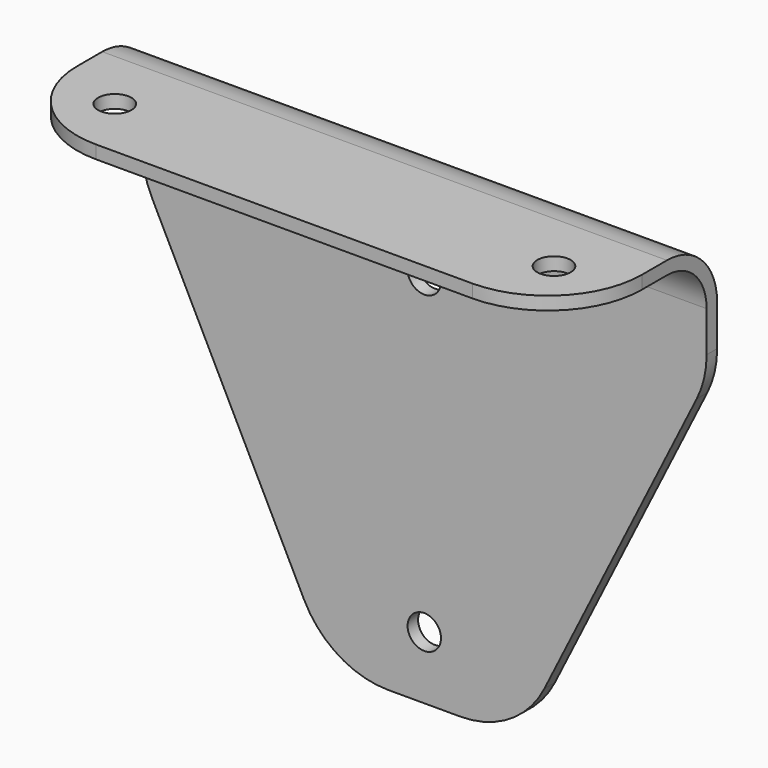
from build123d import *

# Parameters (mm, degrees)
F3_DEPTH = 2.6543
F4_W     = 114.3
F4_H     = 38.1
F5_DEPTH = 2.6543
F6_R     = 10.0457
F7_R     = 12.7
F8_R     = 19.05
F10_D    = 6.7564
F12_D    = 6.7564


with BuildPart() as f3:
    # F2 (on offset) → F3 (new body)
    with BuildSketch(Plane.XZ.offset(19.05)):
        Polygon((57.15, 0), (0, 0), (-57.15, 0), (-57.15, -25.4), (-19.05, -101.6), (0, -101.6), (19.05, -101.6), (57.15, -25.4), align=None)
    extrude(amount=F3_DEPTH)

    # F4 (on face) → F5 (join)
    with BuildSketch(Plane.XY):
        with Locations((0, -38.1)):
            Rectangle(F4_W, F4_H)
    extrude(amount=-F5_DEPTH)

    # F6
    f6_edges = [f3.edges().sort_by_distance(p)[0] for p in [
        (0, -21.7043, -2.6543),
    ]]
    fillet(f6_edges, radius=F6_R)

    # F7
    f7_edges = [f3.edges().sort_by_distance(p)[0] for p in [
        (0, -19.05, 0),
    ]]
    fillet(f7_edges, radius=F7_R)

    # F8
    f8_edges = [f3.edges().sort_by_distance(p)[0] for p in [
        (-57.15, -57.15, -1.32715),
        (57.15, -57.15, -1.32715),
        (-57.15, -20.37715, -25.4),
        (57.15, -20.37715, -25.4),
        (19.05, -20.37715, -101.6),
        (-19.05, -20.37715, -101.6),
    ]]
    fillet(f8_edges, radius=F8_R)

    # F10 (through all)
    with Locations(Plane.XY):
        with Locations((-44.45, -44.45), (44.45, -44.45)):
            Hole(F10_D / 2)

    # F12 (through all)
    with Locations(Plane.XZ.offset(21.7043)):
        with Locations((0, -25.4), (0, -88.9)):
            Hole(F12_D / 2)


solid = f3.part
